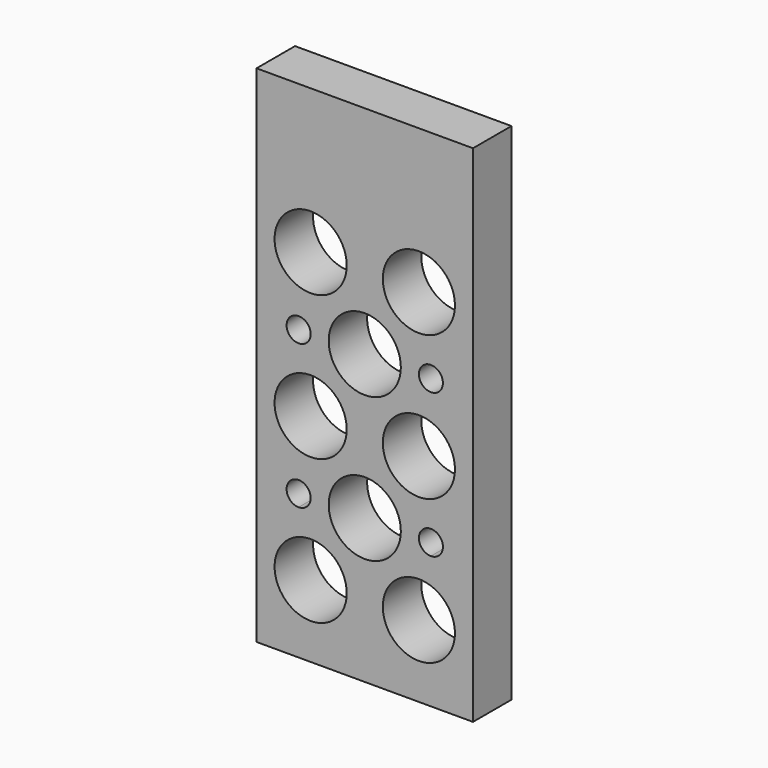
from build123d import *

# Parameters (mm, degrees)
F0_W     = 114.3
F0_H     = 266.7
F3_DEPTH = 25.4
F1_R     = 19.05
F4_DEPTH = 25.4
F2_R     = 6.35
F5_DEPTH = 25.4


with BuildPart() as f3:
    # F0 (on Front) → F3 (new body)
    with BuildSketch(Plane.XZ):
        with Locations((-57.15, 133.35)):
            Rectangle(F0_W, F0_H)
    extrude(amount=F3_DEPTH)

    # F1 (on face) → F4 (cut)
    with BuildSketch(Plane.XZ):
        with Locations((-85.725, 38.1)):
            Circle(F1_R)
        with Locations((-28.575, 38.1)):
            Circle(F1_R)
        with Locations((-57.15, 76.2)):
            Circle(F1_R)
        with Locations((-57.15, 152.4)):
            Circle(F1_R)
        with Locations((-28.575, 114.3)):
            Circle(F1_R)
        with Locations((-85.725, 114.3)):
            Circle(F1_R)
        with Locations((-28.575, 190.5)):
            Circle(F1_R)
        with Locations((-85.725, 190.5)):
            Circle(F1_R)
    extrude(amount=F4_DEPTH, mode=Mode.SUBTRACT)

    # F2 (on face) → F5 (cut)
    with BuildSketch(Plane.XZ):
        with BuildLine():
            ThreePointArc((-85.725, 76.2), (-96.565128, 80.690128), (-92.075, 69.85))
            ThreePointArc((-92.075, 69.85), (-87.584872, 71.709872), (-85.725, 76.2))
        make_face()
        with BuildLine():
            ThreePointArc((-15.875, 76.2), (-26.715128, 80.690128), (-22.225, 69.85))
            ThreePointArc((-22.225, 69.85), (-17.734872, 71.709872), (-15.875, 76.2))
        make_face()
        with Locations((-92.075, 152.4)):
            Circle(F2_R)
        with Locations((-22.225, 152.4)):
            Circle(F2_R)
    extrude(amount=F5_DEPTH, mode=Mode.SUBTRACT)


solid = f3.part
